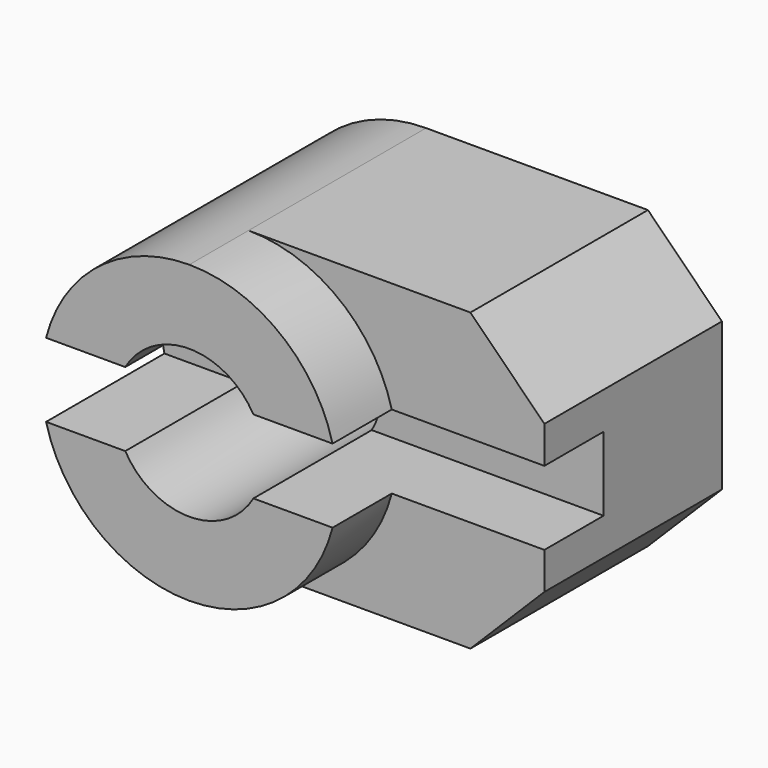
from build123d import *

# Parameters (mm, degrees)
F1_DEPTH = 20
F2_DEPTH = 15
F3_W     = 5
F3_H     = 5
F4_DEPTH = 30
F5_R     = 5
F6_DEPTH = 25


with BuildPart() as f1:
    # F0 (on Front) → F1 (new body)
    with BuildSketch(Plane.XZ):
        with BuildLine():
            ThreePointArc((0, -10), (7.071068, -7.071068), (10, 0))
            ThreePointArc((10, 0), (7.071068, 7.071068), (0, 10))
            ThreePointArc((0, 10), (-10, 0), (0, -10))
        make_face()
    extrude(amount=F1_DEPTH)

    # F0 (on Front) → F2 (join)
    with BuildSketch(Plane.XZ):
        with BuildLine():
            ThreePointArc((0, 10), (7.071068, 7.071068), (10, 0))
            ThreePointArc((10, 0), (7.071068, -7.071068), (0, -10))
            Line((0, -10), (15, -10))
            Line((15, -10), (20, -5))
            Line((20, -5), (20, 0))
            Line((20, 0), (20, 5))
            Line((20, 5), (15, 10))
            Line((15, 10), (0, 10))
        make_face()
    extrude(amount=F2_DEPTH)

    # F3 (on face) → F4 (cut)
    with BuildSketch(Plane.YZ.offset(20)):
        with Locations((-17.5, 0)):
            Rectangle(F3_W, F3_H)
        with Locations((-12.5, 0)):
            Rectangle(F3_W, F3_H)
    extrude(amount=-F4_DEPTH, mode=Mode.SUBTRACT)

    # F5 (on Front) → F6 (cut)
    with BuildSketch(Plane.XZ):
        Circle(F5_R)
    extrude(amount=F6_DEPTH, mode=Mode.SUBTRACT)


solid = f1.part
